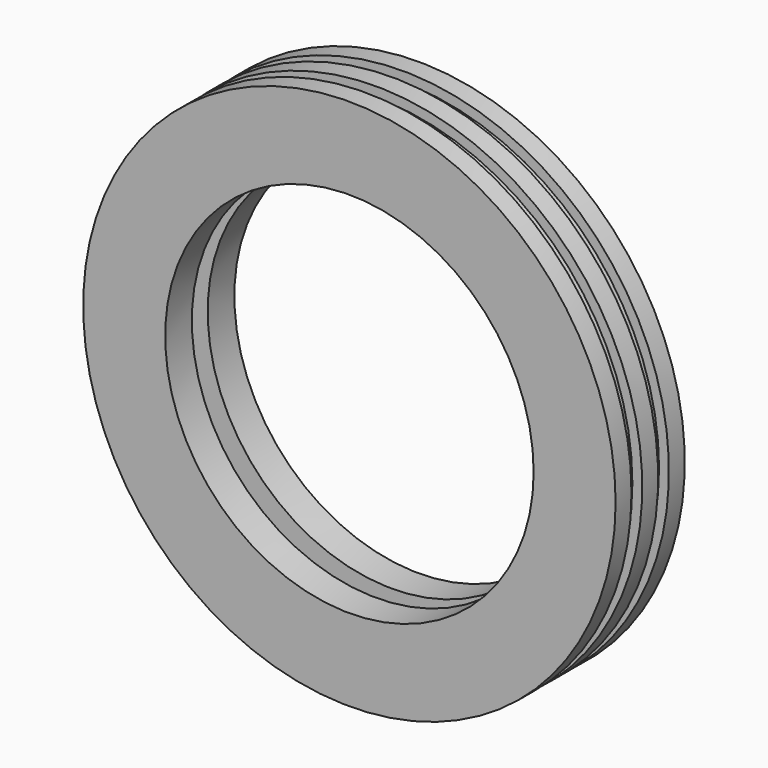
from build123d import *

# Parameters (mm, degrees)
F0_R     = 75.057
F1_DEPTH = 5.588
F2_R     = 72.263
F3_DEPTH = 3.81
F4_R     = 75.057
F4_R_2   = 72.263
F5_DEPTH = 5.588
F6_R     = 72.263
F7_DEPTH = 3.81
F8_R     = 75.057
F9_DEPTH = 5.588
F11_D    = 103.886
F11_2_D  = 103.886


with BuildPart() as f1:
    # F0 (on Front) → F1 (new body)
    with BuildSketch(Plane.XZ):
        Circle(F0_R)
    extrude(amount=F1_DEPTH)

    # F2 (on face) → F3 (join)
    with BuildSketch(Plane(origin=(0, 0, 0), x_dir=(-1, 0, 0), z_dir=(0, 1, 0))):
        Circle(F2_R)
    extrude(amount=F3_DEPTH)

    # F11 (through all)
    with Locations(Plane(origin=(0, 18.796, 0), x_dir=(-1, 0, 0), z_dir=(0, 1, 0))):
        with Locations((0, 0)):
            Hole(F11_D / 2)


with BuildPart() as f5:
    # F4 (on face) → F5 (new body)
    with BuildSketch(Plane(origin=(0, 3.81, 0), x_dir=(-1, 0, 0), z_dir=(0, 1, 0))):
        Circle(F4_R)
        Circle(F4_R_2, mode=Mode.SUBTRACT)
    extrude(amount=F5_DEPTH)


with BuildPart() as f7:
    # F6 (on face) → F7 (new body)
    with BuildSketch(Plane(origin=(0, 9.398, 0), x_dir=(-1, 0, 0), z_dir=(0, 1, 0))):
        Circle(F6_R)
    extrude(amount=F7_DEPTH)

    # F8 (on face) → F9 (join)
    with BuildSketch(Plane(origin=(0, 13.208, 0), x_dir=(-1, 0, 0), z_dir=(0, 1, 0))):
        Circle(F8_R)
    extrude(amount=F9_DEPTH)

    # F11#2 (through all)
    with Locations(Plane(origin=(0, 18.796, 0), x_dir=(-1, 0, 0), z_dir=(0, 1, 0))):
        with Locations((0, 0)):
            Hole(F11_2_D / 2)


solid = Compound([f1.part, f5.part, f7.part])
